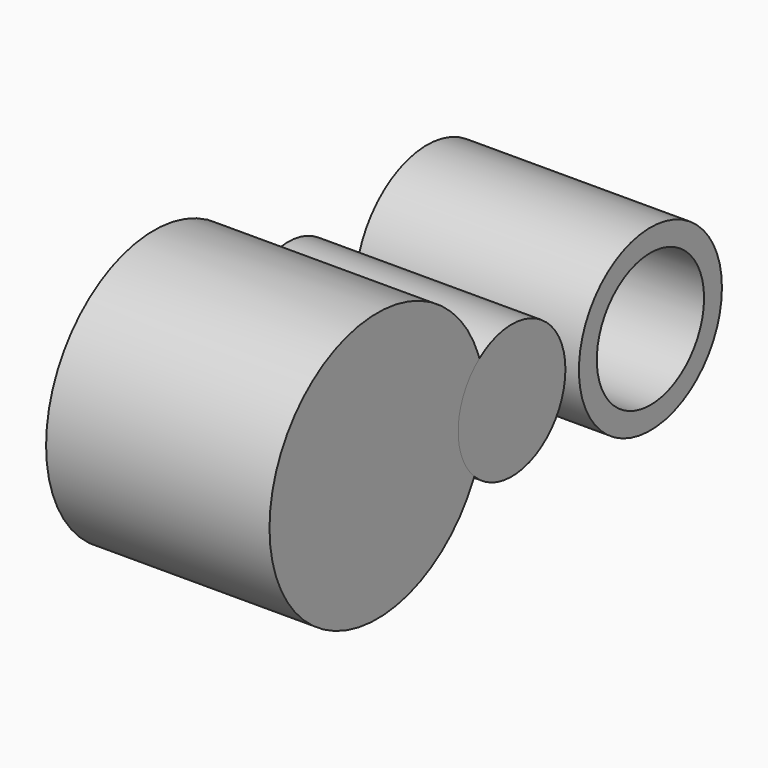
from build123d import *

# Parameters (mm, degrees)
F0_R     = 15.07436
F3_DEPTH = 25
F1_R     = 7.5
F4_DEPTH = 25
F2_R     = 10
F2_R_2   = 7.5
F5_DEPTH = 25


with BuildPart() as f3:
    # F0 (on Right) → F3 (new body)
    with BuildSketch(Plane.YZ):
        with Locations((-53.810444, 31.583011)):
            Circle(F0_R)
    extrude(amount=F3_DEPTH)


with BuildPart() as f4:
    # F1 (on Right) → F4 (new body)
    with BuildSketch(Plane.YZ):
        with Locations((-34.999277, 30.387111)):
            Circle(F1_R)
    extrude(amount=F4_DEPTH)


with BuildPart() as f5:
    # F2 (on Right) → F5 (new body)
    with BuildSketch(Plane.YZ):
        with Locations((-15.606225, 29.542951)):
            Circle(F2_R)
        with Locations((-15.606225, 29.542951)):
            Circle(F2_R_2, mode=Mode.SUBTRACT)
    extrude(amount=F5_DEPTH)


solid = Compound([f3.part, f4.part, f5.part])
